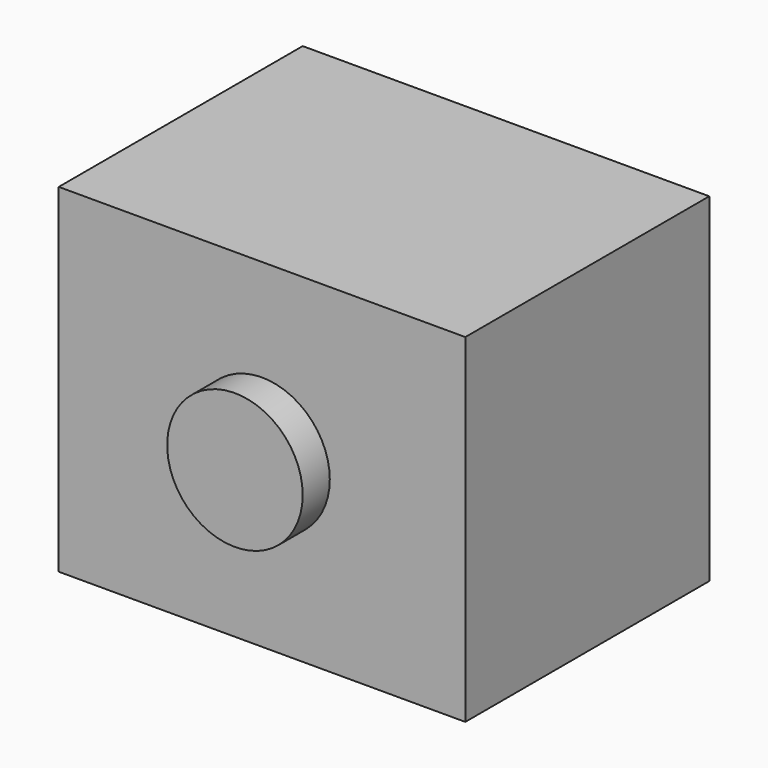
from build123d import *

# Parameters (mm, degrees)
F0_W     = 12
F0_H     = 10
F0_R     = 2
F1_DEPTH = 9
F2_DEPTH = 1


with BuildPart() as f1:
    # F0 (on Front) → F1 (new body)
    with BuildSketch(Plane.XZ):
        with Locations((6, 5)):
            Rectangle(F0_W, F0_H)
        with Locations((6, 5)):
            Circle(F0_R, mode=Mode.SUBTRACT)
        with Locations((6, 5)):
            Circle(F0_R)
    extrude(amount=-F1_DEPTH)

    # F0 (on Front) → F2 (join)
    with BuildSketch(Plane.XZ):
        with Locations((6, 5)):
            Circle(F0_R)
    extrude(amount=F2_DEPTH)


solid = f1.part
